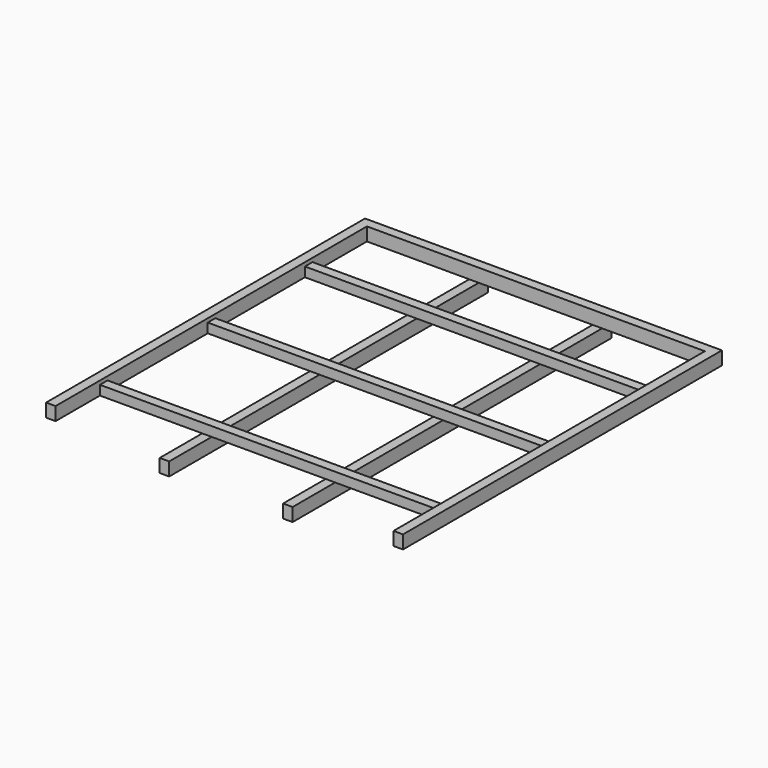
from build123d import *

# Parameters (mm, degrees)
F1_DEPTH = 7
F2_W     = 180
F2_H     = 5
F3_DEPTH = 5
F4_W     = 5.000001
F4_H     = 210
F4_W_2   = 5
F5_DEPTH = 7


with BuildPart() as f1:
    # F0 (on Top) → F1 (new body)
    with BuildSketch(Plane.XY):
        Polygon((94.104588, 118.803262), (-93.895412, 118.803262), (-93.895412, -91.196738), (-88.895412, -91.196738), (-88.895412, 113.803262), (89.104588, 113.803262), (89.104588, -91.196738), (94.104588, -91.196738), align=None)
    extrude(amount=F1_DEPTH)

    # F2 (on Top) → F3 (join)
    with BuildSketch(Plane.XY):
        with Locations((0.104588, 75.474764)):
            Rectangle(F2_W, F2_H)
        with Locations((0.104588, 11.5)):
            Rectangle(F2_W, F2_H)
        with Locations((0.104588, -59.49998)):
            Rectangle(F2_W, F2_H)
    extrude(amount=F3_DEPTH)

    # F4 (on Top) → F5 (join)
    with BuildSketch(Plane.XY):
        with Locations((-32.5, 15)):
            Rectangle(F4_W, F4_H)
        with Locations((32.5, 15)):
            Rectangle(F4_W_2, F4_H)
    extrude(amount=-F5_DEPTH)


solid = f1.part
